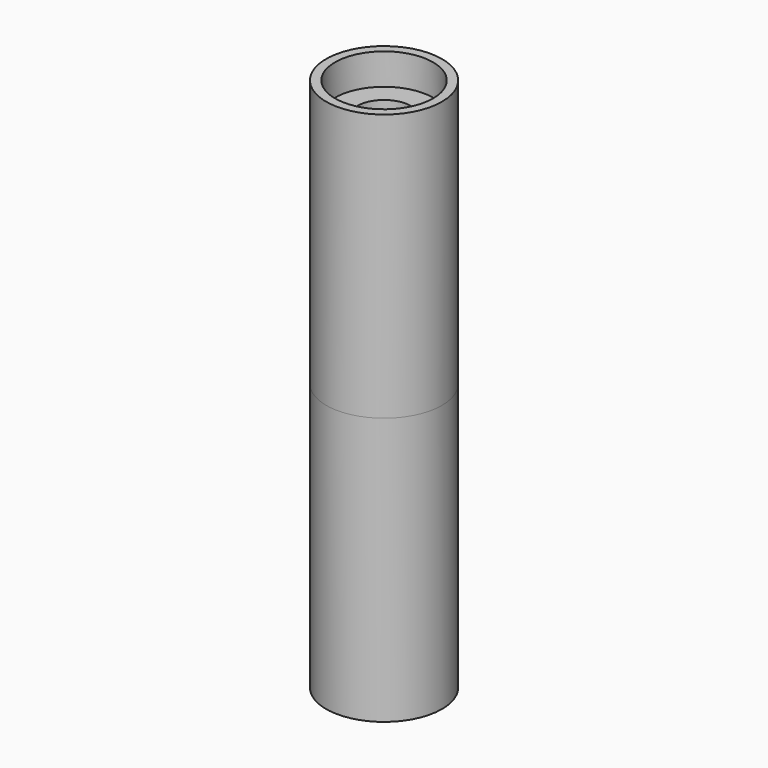
from build123d import *

# Parameters (mm, degrees)
F0_R     = 13
F0_R_2   = 11
F0_R_3   = 6
F1_DEPTH = 60
F2_DEPTH = 7
F3_DEPTH = 15


with BuildPart() as f1:
    # F0 (on Top) → F1 (new body)
    with BuildSketch(Plane.XY):
        Circle(F0_R)
        Circle(F0_R_2, mode=Mode.SUBTRACT)
        Circle(F0_R_2)
        Circle(F0_R_3, mode=Mode.SUBTRACT)
        Circle(F0_R_3)
    extrude(amount=F1_DEPTH)

    # F0 (on Top) → F2 (cut)
    with BuildSketch(Plane.XY):
        Circle(F0_R_2)
        Circle(F0_R_3, mode=Mode.SUBTRACT)
        Circle(F0_R_3)
    extrude(amount=F2_DEPTH, mode=Mode.SUBTRACT)

    # F0 (on Top) → F3 (cut)
    with BuildSketch(Plane.XY):
        Circle(F0_R_3)
    extrude(amount=F3_DEPTH, mode=Mode.SUBTRACT)

    # F5: F1 across plane


with BuildPart() as f1_1:
    add(f1.part)
    add(f1.part.mirror(Plane.XY.offset(60)))


solid = f1_1.part
